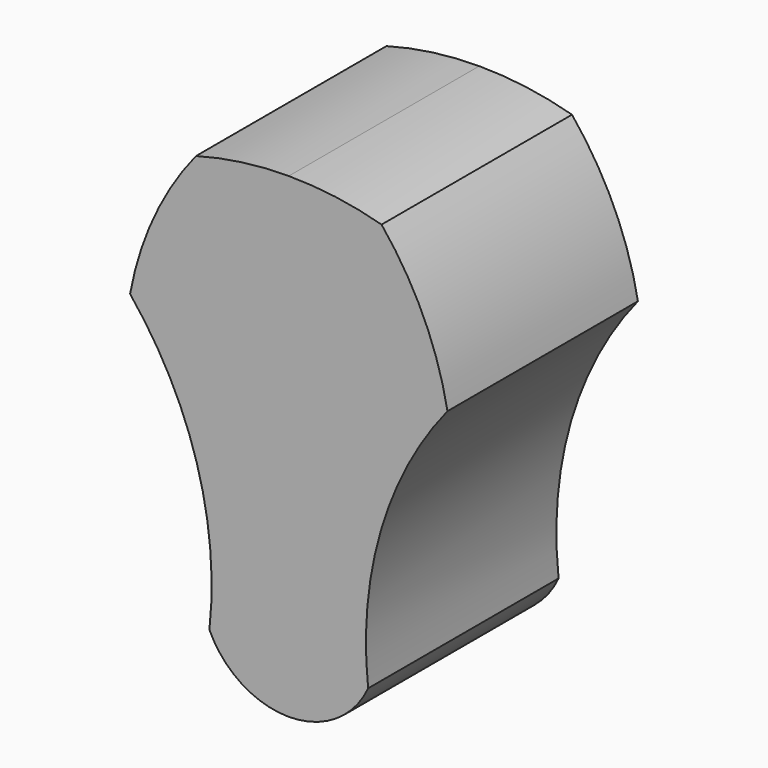
from build123d import *

# Parameters (mm, degrees)
F1_DEPTH = 150


with BuildPart() as f1:
    # F0 (on Front) → F1 (new body)
    with BuildSketch(Plane.XZ):
        with BuildLine():
            ThreePointArc((100, 202.087122), (84.900082, 249.700459), (58.472668, 292.087122))
            ThreePointArc((58.472668, 292.087122), (29.502824, 298.012806), (0, 300))
            ThreePointArc((0, 300), (-29.502824, 298.012806), (-58.472668, 292.087122))
            ThreePointArc((-58.472668, 292.087122), (-84.900082, 249.700459), (-100, 202.087122))
            ThreePointArc((-100, 202.087122), (-57.971121, 122.095615), (-50, 32.087122))
            ThreePointArc((-50, 32.087122), (-29.705148, 8.711728), (0, 0))
            ThreePointArc((0, 0), (29.705148, 8.711728), (50, 32.087122))
            ThreePointArc((50, 32.087122), (57.971121, 122.095615), (100, 202.087122))
        make_face()
    extrude(amount=F1_DEPTH)


solid = f1.part
